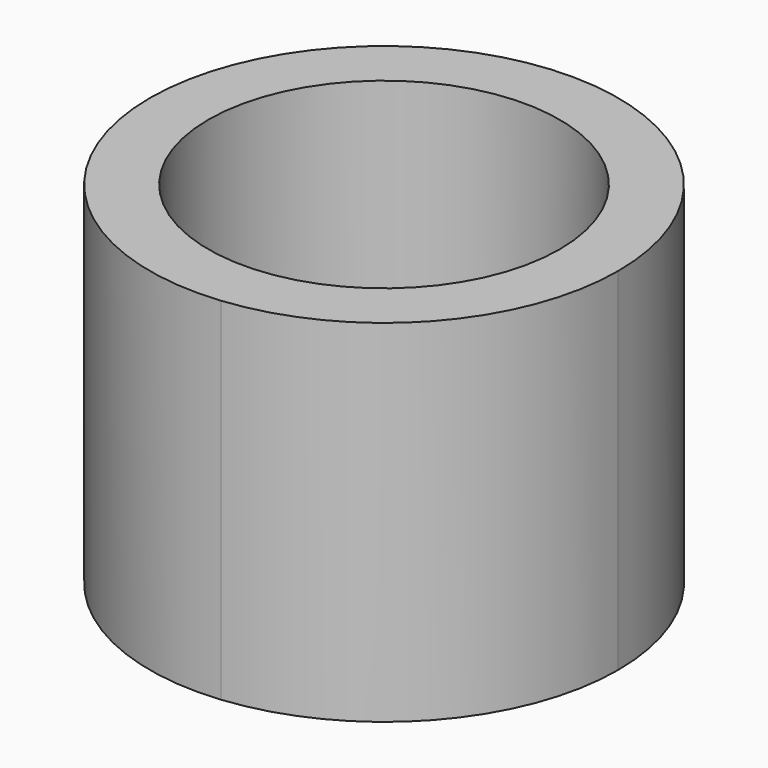
from build123d import *

# Parameters (mm, degrees)
F0_R     = 19.05
F1_DEPTH = 38.1


with BuildPart() as f1:
    # F0 (on Top) → F1 (new body)
    with BuildSketch(Plane.XY):
        with BuildLine():
            ThreePointArc((2.54, -25.272681), (18.837144, -17.038838), (25.4, 0))
            ThreePointArc((25.4, 0), (18.837144, 17.038838), (2.54, 25.272681))
            ThreePointArc((2.54, 25.272681), (-25.4, 0), (2.54, -25.272681))
        make_face()
        Circle(F0_R, mode=Mode.SUBTRACT)
    extrude(amount=F1_DEPTH)


solid = f1.part
